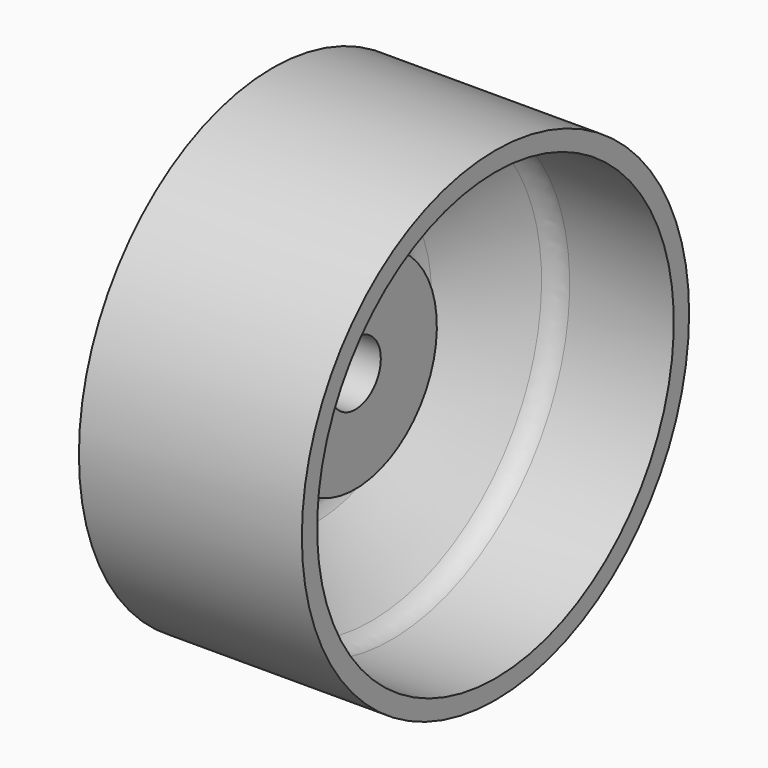
from build123d import *

# Parameters (mm, degrees)
F2_R     = 25.4
F3_SCALE = 0.6


with BuildPart() as f1:
    # F0 (on Front) → F1 (revolve)
    with BuildSketch(Plane.XZ):
        Polygon((111.125, 222.25), (111.125, 241.3), (-111.125, 241.3), (-111.125, 222.25), (-29.2621003771, 222.25), (-5.1864683628, 222.25), align=None)
        Polygon((-98.425, 101.6), (-5.1864683628, 222.25), (-29.2621003771, 222.25), (-122.5006320143, 101.6), align=None)
        Polygon((-28.575, 101.6), (-98.425, 101.6), (-122.5006320143, 101.6), (-168.275, 101.6), (-168.275, 31.75), (-28.575, 31.75), align=None)
    revolve(axis=Axis((-5.1864683628, 0, 0), (1, 0, 0)))

    # F2
    f2_edges = [f1.edges().sort_by_distance(p)[0] for p in [
        (-98.425, 0, -101.6),
        (-5.186468, 0, -222.25),
        (-51.805734, 0, 161.925),
        (-29.2621, 0, -222.25),
        (-122.500632, 0, -101.6),
        (-75.881366, 0, 161.925),
    ]]
    fillet(f2_edges, radius=F2_R)


with BuildPart() as f1_1:
    # F3: moved
    add(f1.part.scale(F3_SCALE))


solid = f1_1.part
